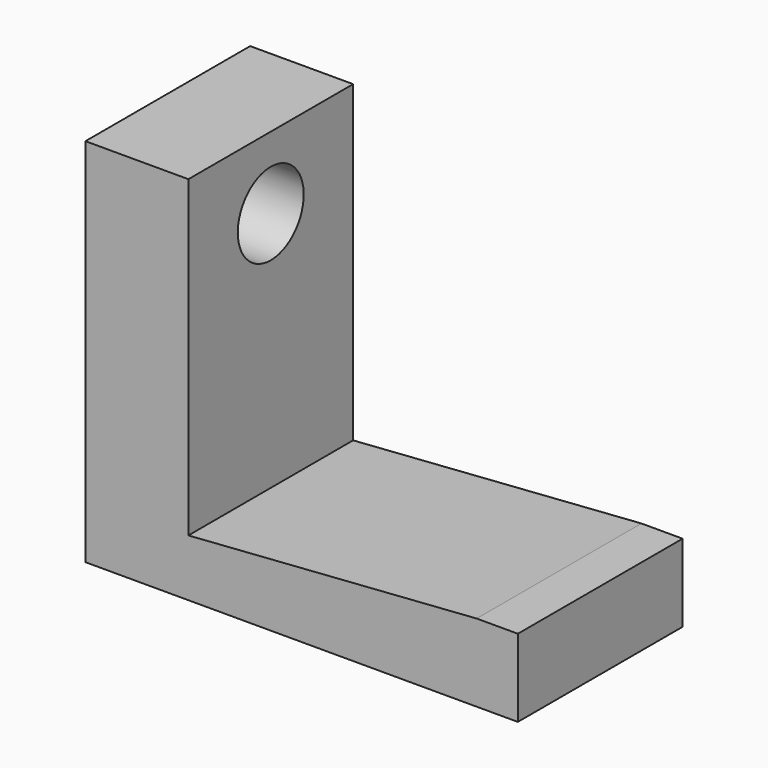
from build123d import *

# Parameters (mm, degrees)
CYLINDER002_R     = 2
CYLINDER002_DEPTH = 10
BOX002_W          = 5
BOX002_H          = 10
BOX002_DEPTH      = 18
EXTRUDE_DEPTH     = 10


with BuildPart() as cylinder002:
    # Cylinder002 → Cylinder002 (new body)
    with BuildSketch(Plane(origin=(-65, -38, 3.5), x_dir=(0, 0, -1), z_dir=(1, 0, 0))):
        Circle(CYLINDER002_R)
    extrude(amount=CYLINDER002_DEPTH)


with BuildPart() as cut002:
    # Box002 → Box002 (new body)
    with BuildSketch(Plane(origin=(-63, -43, -11), x_dir=(1, 0, 0), z_dir=(0, 0, 1))):
        with Locations((2.5, 5)):
            Rectangle(BOX002_W, BOX002_H)
    extrude(amount=BOX002_DEPTH)

    # Cut002: cut Cylinder002
    add(cylinder002.part, mode=Mode.SUBTRACT)


with BuildPart() as fusion001:
    # Sketch → Extrude (new body)
    with BuildSketch(Plane.XZ):
        Polygon((-49.224583, -10.083495), (-33.224583, -10.083495), (-33.224583, -6.313495), (-35.224583, -6.313495), (-49.224583, -7.313495), align=None)
    extrude(amount=EXTRUDE_DEPTH)


with BuildPart() as fusion001_1:
    # Extrude placement: moved
    add(fusion001.part.moved(Location((-8.775417, -33, -0.916505))))

    # Fusion001: union Cut002
    add(cut002.part)


solid = fusion001_1.part
